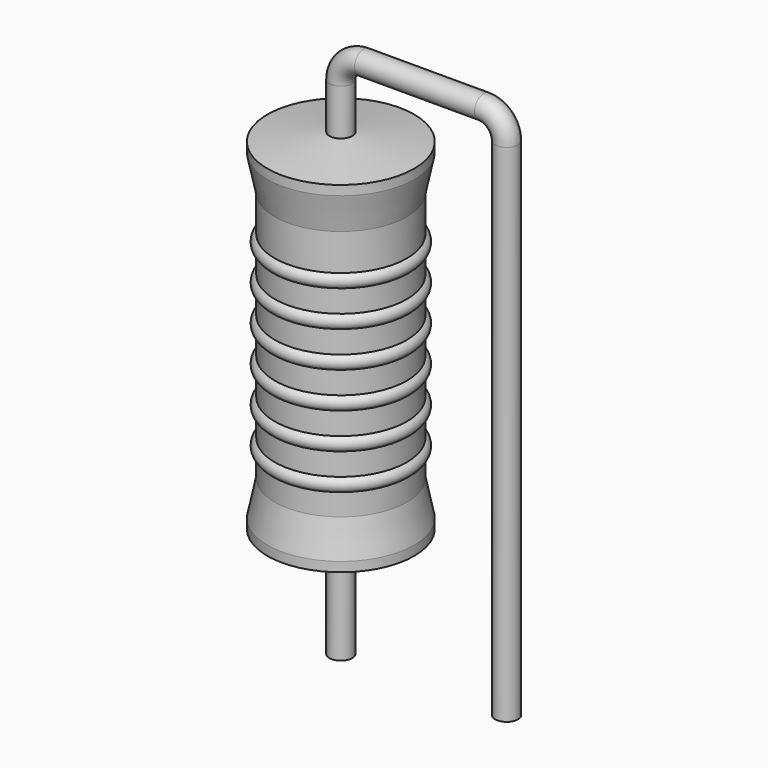
from build123d import *

# Parameters (mm, degrees)
SKETCH_R = 0.35


with BuildPart() as revolution:
    # Sketch002 → Revolution (revolve)
    with BuildSketch(Plane.XZ):
        Polygon((0, 0.1), (0, 11.1), (0.2625, 11.1), (2.25, 10.825), (2.25, 10.5325), (2.025, 9.45), (2.025, 1.75), (2.25, 0.6675), (2.25, 0.375), (0.2625, 0.1), align=None)
    revolve(axis=Axis((0, 0, 0), (0, 0, 1)))


with BuildPart() as sweep_body:
    # Sweep: sweep along a path in Sketch001
    with BuildLine(Plane.XZ) as sweep_path:
        Line((0, -3), (0, 12.5))
        ThreePointArc((0, 12.5), (0.205023, 12.994972), (0.699994, 13.2))
        Line((0.699994, 13.2), (4.38, 13.2))
        ThreePointArc((4.38, 13.2), (4.874975, 12.994975), (5.08, 12.5))
        Line((5.08, 12.5), (5.08, -3))
    # Sketch → Sweep (sweep)
    with BuildSketch(Plane.XY.offset(-2)):
        Circle(SKETCH_R)
    sweep(path=sweep_path.line)


with BuildPart() as obj1:
    # Sketch003 → Revolution001 (revolve)
    with BuildSketch(Plane.XZ):
        with BuildLine():
            Line((1.8, 9), (1.8, 1.75))
            Line((1.8, 1.75), (1.935, 1.75))
            Line((1.935, 1.75), (1.935, 2.4))
            ThreePointArc((1.935, 2.4), (2.16, 2.625), (1.935, 2.85))
            Line((1.935, 2.85), (1.935, 3.5))
            ThreePointArc((1.935, 3.5), (2.16, 3.725), (1.935, 3.95))
            Line((1.935, 3.95), (1.935, 4.6))
            ThreePointArc((1.935, 4.6), (2.16, 4.825), (1.935, 5.05))
            Line((1.935, 5.05), (1.935, 5.7))
            ThreePointArc((1.935, 5.7), (2.16, 5.925), (1.935, 6.15))
            Line((1.935, 6.15), (1.935, 6.8))
            ThreePointArc((1.935, 6.8), (2.16, 7.025), (1.935, 7.25))
            Line((1.935, 7.25), (1.935, 7.9))
            ThreePointArc((1.935, 7.9), (2.16, 8.125), (1.935, 8.35))
            Line((1.935, 9), (1.935, 8.35))
            Line((1.8, 9), (1.935, 9))
        make_face()
    revolve(axis=Axis((0, 0, 0), (0, 0, 1)))

    # obj1: union Revolution, Sweep body
    add(revolution.part)
    add(sweep_body.part)


solid = obj1.part
